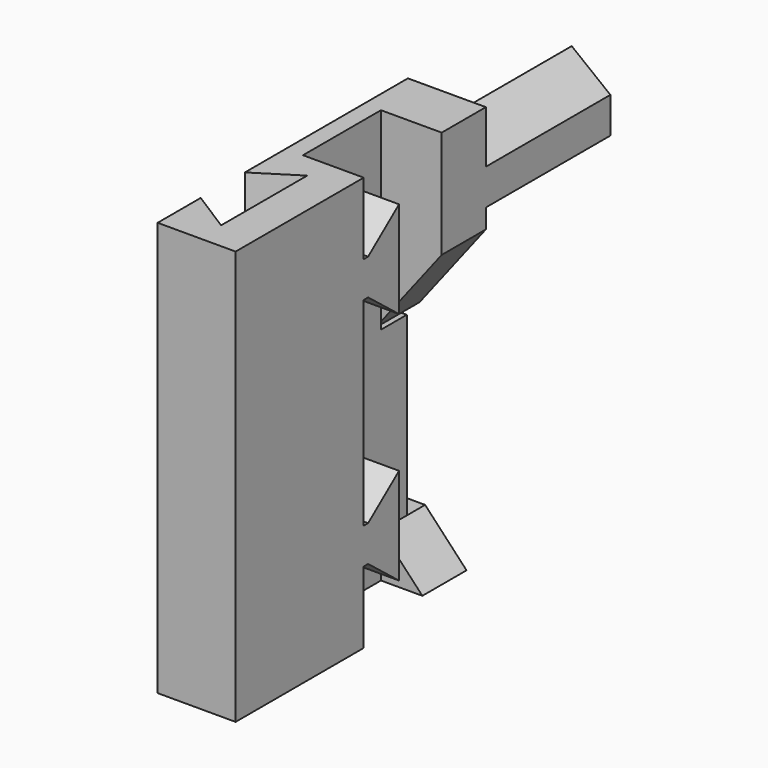
from build123d import *

# Parameters (mm, degrees)
F0_W      = 2.11328
F0_H      = 17.78
F1_DEPTH  = 1.5875
F3_DEPTH  = 5.588
F4_W      = 14.732
F4_H      = 38.1
F5_DEPTH  = 5.588
F3_FACE_W = 5.588
F3_FACE_H = 3.302
F6_DEPTH  = 0.508
F8_DEPTH  = 38.101
F9_W      = 5.08
F9_H      = 17.78
F10_DEPTH = 5.588
F12_DEPTH = 5.08
F14_DEPTH = 14.32052
F15_W     = 2.96672
F15_H     = 4.064
F16_DEPTH = 3.81
F17_W     = 5.3975
F17_H     = 4.064
F18_DEPTH = 2.11328
F20_DEPTH = 5.08


with BuildPart() as f1:
    # F0 (on Right) → F1 (new body)
    with BuildSketch(Plane.YZ):
        Polygon((11.43, 38.1), (-15.24, 38.1), (-15.24, 0), (11.43, 0), (11.43, 20.32), align=None)
        with Locations((12.48664, 29.21)):
            Rectangle(F0_W, F0_H)
    extrude(amount=F1_DEPTH)

    # F2 (on face) → F3 (join)
    with BuildSketch(Plane.YZ.offset(1.5875)):
        Polygon((3.556, 34.29), (0, 31.496), (0, 28.194), (3.556, 25.4), align=None)
        Polygon((3.556, 12.7), (0, 9.906), (0, 6.604), (3.556, 3.81), align=None)
    extrude(amount=F3_DEPTH)

    # F4 (on face) → F5 (join, through all)
    with BuildSketch(Plane.YZ.offset(1.5875)):
        with Locations((-7.874, 19.05)):
            Rectangle(F4_W, F4_H)
    extrude(amount=F5_DEPTH)

    # F3_face (on face) → F6 (join)
    with BuildSketch(Plane(origin=(4.3815, 0, 29.845), x_dir=(1, 0, 0), z_dir=(0, -1, 0))):
        Rectangle(F3_FACE_W, F3_FACE_H)
        with Locations((0, -21.59)):
            Rectangle(F3_FACE_W, F3_FACE_H)
    extrude(amount=F6_DEPTH)

    # F7 (on face) → F8 (cut, through all)
    with BuildSketch(Plane.XY.offset(38.1)):
        Polygon((3.81, -12.7), (3.81, -2.794), (0, -5.207), (0, -10.287), align=None)
    extrude(amount=-F8_DEPTH, mode=Mode.SUBTRACT)

    # F9 (on face) → F10 (join, through all)
    with BuildSketch(Plane.YZ.offset(1.5875)):
        with Locations((11.00328, 29.21)):
            Rectangle(F9_W, F9_H)
    extrude(amount=F10_DEPTH)

    # F11 (on face) → F12 (cut, through all)
    with BuildSketch(Plane(origin=(0, 13.54328, 0), x_dir=(-1, 0, 0), z_dir=(0, 1, 0))):
        Polygon((-7.1755, 28.194), (-7.1755, 20.32), (-1.0795, 20.32), align=None)
    extrude(amount=-F12_DEPTH, mode=Mode.SUBTRACT)

    # F13 (on face) → F14 (join)
    with BuildSketch(Plane(origin=(0, 13.54328, 0), x_dir=(-1, 0, 0), z_dir=(0, 1, 0))):
        Polygon((-3.6195, 36.068), (-7.1755, 33.274), (-7.1755, 29.972), (-3.6195, 27.178), align=None)
    extrude(amount=F14_DEPTH)

    # F15 (on face) → F16 (join)
    with BuildSketch(Plane.YZ.offset(1.5875)):
        with Locations((9.94664, 2.032)):
            Rectangle(F15_W, F15_H)
    extrude(amount=F16_DEPTH)

    # F17 (on face) → F18 (join, through all)
    with BuildSketch(Plane(origin=(0, 11.43, 0), x_dir=(-1, 0, 0), z_dir=(0, 1, 0))):
        with Locations((-2.69875, 2.032)):
            Rectangle(F17_W, F17_H)
    extrude(amount=F18_DEPTH)

    # F19 (on face) → F20 (cut, through all)
    with BuildSketch(Plane(origin=(0, 13.54328, 0), x_dir=(-1, 0, 0), z_dir=(0, 1, 0))):
        Polygon((-1.5875, 4.064), (-5.3975, 4.064), (-5.3975, 0), align=None)
    extrude(amount=-F20_DEPTH, mode=Mode.SUBTRACT)


solid = f1.part
